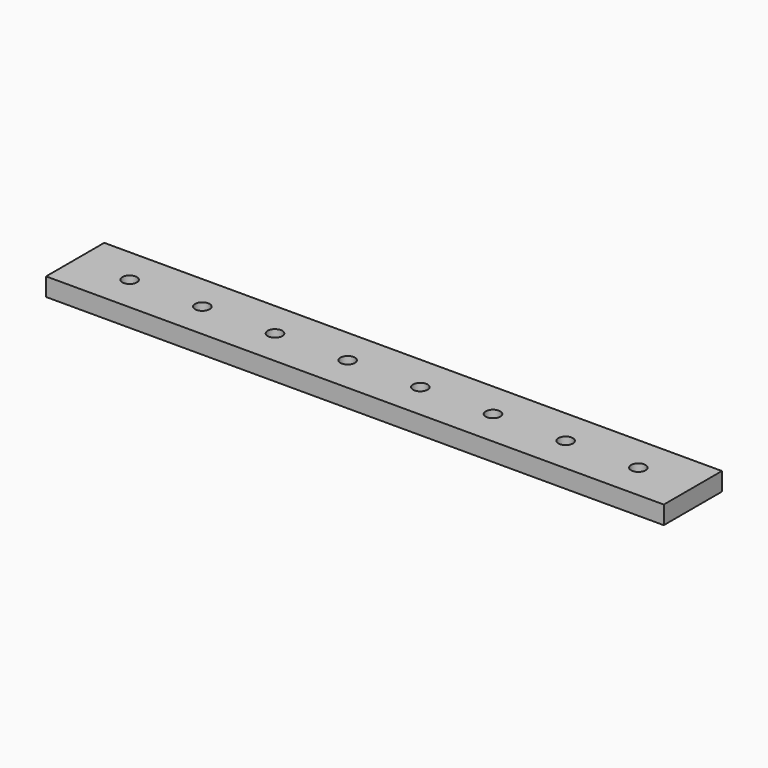
from build123d import *

# Parameters (mm, degrees)
F0_W     = 170
F0_H     = 20
F0_R     = 2
F1_DEPTH = 5


with BuildPart() as f1:
    # F0 (on Top) → F1 (new body)
    with BuildSketch(Plane.XY):
        Rectangle(F0_W, F0_H)
        with Locations((-70, 0)):
            Circle(F0_R, mode=Mode.SUBTRACT)
        with Locations((-50, 0)):
            Circle(F0_R, mode=Mode.SUBTRACT)
        with Locations((-30, 0)):
            Circle(F0_R, mode=Mode.SUBTRACT)
        with Locations((-10, 0)):
            Circle(F0_R, mode=Mode.SUBTRACT)
        with BuildLine():
            ThreePointArc((12, 0), (10, -2), (8, 0))
            ThreePointArc((8, 0), (10, 2), (12, 0))
        make_face(mode=Mode.SUBTRACT)
        with Locations((30, 0)):
            Circle(F0_R, mode=Mode.SUBTRACT)
        with Locations((50, 0)):
            Circle(F0_R, mode=Mode.SUBTRACT)
        with Locations((70, 0)):
            Circle(F0_R, mode=Mode.SUBTRACT)
    extrude(amount=F1_DEPTH)


solid = f1.part
